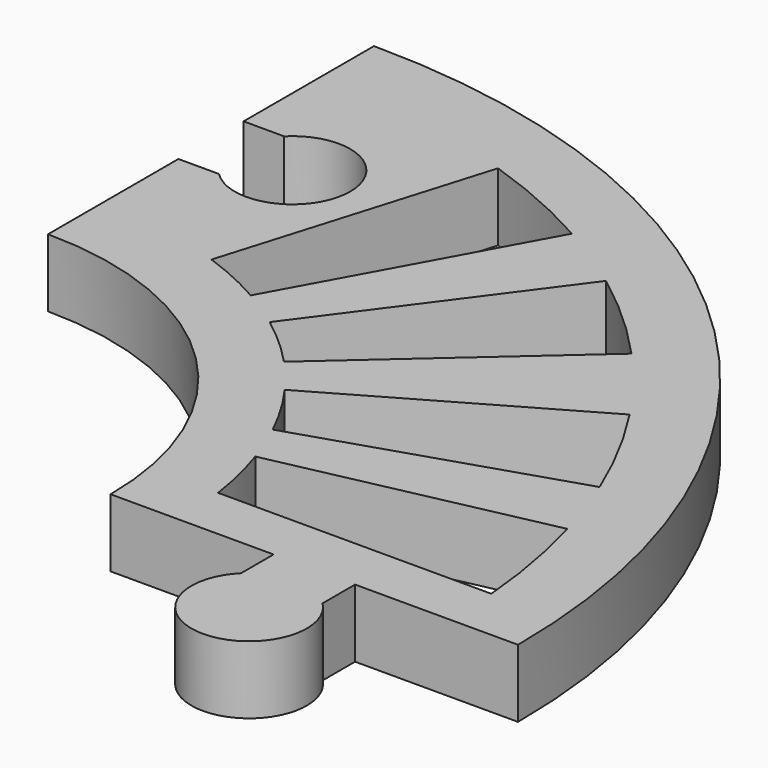
from build123d import *

# Parameters (mm, degrees)
F1_DEPTH = 10


with BuildPart() as f1:
    # F0 (on Top) → F1 (new body)
    with BuildSketch(Plane.XY):
        with BuildLine():
            Line((96.066017, 0), (106.066017, 0))
            ThreePointArc((106.066017, 0), (75, 75), (0, 106.066017))
            Line((0, 106.066017), (0, 82.066017))
            Line((0, 82.066017), (5.979203, 82.066017))
            ThreePointArc((5.979203, 82.066017), (20.5, 76.066017), (5.979203, 70.066017))
            Line((5.979203, 70.066017), (0, 70.066017))
            Line((0, 70.066017), (0, 46.066017))
            ThreePointArc((0, 46.066017), (32.573593, 32.573593), (46.066017, 0))
            Line((46.066017, 0), (56.066017, 0))
            Line((56.066017, 0), (70.066017, 0))
            Line((70.066017, 0), (82.066017, 0))
            Line((82.066017, 0), (96.066017, 0))
        make_face()
        with BuildLine():
            ThreePointArc((92.458696, 26.078138), (94.528676, 17.117507), (95.732333, 8))
            Line((95.732333, 8), (55.492326, 8))
            ThreePointArc((55.492326, 8), (54.557771, 12.916962), (53.188442, 17.730987))
            Line((53.188442, 17.730987), (92.458696, 26.078138))
        make_face(mode=Mode.SUBTRACT)
        with BuildLine():
            Line((88.847953, 36.533832), (50.564439, 24.220565))
            ThreePointArc((50.564439, 24.220565), (48.20296, 28.633423), (45.457349, 32.818101))
            Line((45.457349, 32.818101), (80.268862, 52.778684))
            ThreePointArc((80.268862, 52.778684), (84.94762, 44.861805), (88.847953, 36.533832))
        make_face(mode=Mode.SUBTRACT)
        with BuildLine():
            Line((70.965832, 64.749752), (41.013609, 38.226721))
            ThreePointArc((41.013609, 38.226721), (37.441108, 41.732023), (33.570237, 44.90476))
            Line((33.570237, 44.90476), (57.349174, 77.069786))
            ThreePointArc((57.349174, 77.069786), (64.452548, 71.235866), (70.965832, 64.749752))
        make_face(mode=Mode.SUBTRACT)
        with BuildLine():
            Line((46.948382, 83.812464), (27.713036, 48.737931))
            ThreePointArc((27.713036, 48.737931), (23.256135, 51.015198), (18.613906, 52.885922))
            Line((18.613906, 52.885922), (30.142901, 91.214501))
            ThreePointArc((30.142901, 91.214501), (38.722913, 87.915958), (46.948382, 83.812464))
        make_face(mode=Mode.SUBTRACT)
        with BuildLine():
            Line((82.066017, -5.979203), (82.066017, 0))
            Line((82.066017, 0), (70.066017, 0))
            Line((70.066017, 0), (70.066017, -5.979203))
            ThreePointArc((70.066017, -5.979203), (76.066017, -20.5), (82.066017, -5.979203))
        make_face()
    extrude(amount=F1_DEPTH)


solid = f1.part
